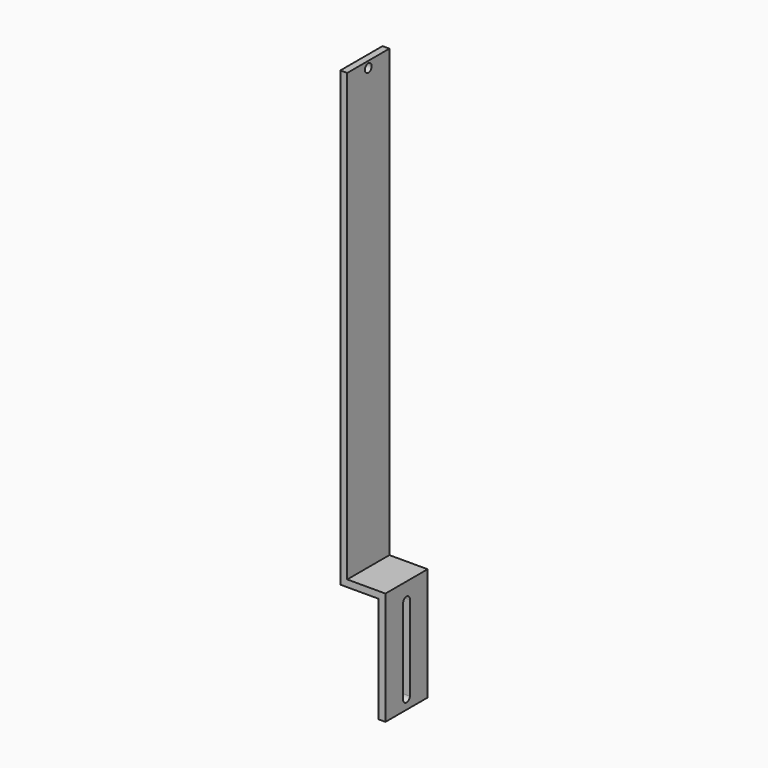
from build123d import *

# Parameters (mm, degrees)
F0_W      = 3.22
F0_H      = 24.83
F1_DEPTH  = 3.22
F1_FACE_W = 3.22
F1_FACE_H = 24.83
F2_DEPTH  = 210
F4_D      = 4
F4_DEPTH  = 3.22
F5_W      = 24.83
F5_H      = 3.22
F6_DEPTH  = 18
F7_W      = 3.22
F7_H      = 24.83
F8_DEPTH  = 50
F10_DEPTH = 3.22


with BuildPart() as f1:
    # F0 (on Top) → F1 (new body)
    with BuildSketch(Plane.XY):
        Rectangle(F0_W, F0_H)
    extrude(amount=F1_DEPTH)

    # F1_face (on face) → F2 (join)
    with BuildSketch(Plane.XY.offset(3.22)):
        Rectangle(F1_FACE_W, F1_FACE_H)
    extrude(amount=F2_DEPTH)

    # F4
    with Locations(Plane.YZ.offset(1.61)):
        with Locations((0, 210.22)):
            Hole(F4_D / 2, depth=F4_DEPTH)

    # F5 (on face) → F6 (join)
    with BuildSketch(Plane.YZ.offset(1.61)):
        with Locations((0, 1.61)):
            Rectangle(F5_W, F5_H)
    extrude(amount=F6_DEPTH)

    # F7 (on face) → F8 (join)
    with BuildSketch(Plane(origin=(0, 0, 0), x_dir=(1, 0, 0), z_dir=(0, 0, -1))):
        with Locations((18, 0)):
            Rectangle(F7_W, F7_H)
    extrude(amount=F8_DEPTH)

    # F9 (on face) → F10 (cut)
    with BuildSketch(Plane.YZ.offset(19.61)):
        with BuildLine():
            Line((1.987245, -44.774488), (1.987245, -5.225512))
            ThreePointArc((1.987245, -5.225512), (0.202519, -3.01028), (-1.991929, -4.820501))
            Line((-1.991929, -4.820501), (-1.991929, -5.179499))
            Line((-1.991929, -5.179499), (-1.991929, -44.820501))
            Line((-1.991929, -44.820501), (-1.991929, -45.179499))
            ThreePointArc((-1.991929, -45.179499), (-0.023125, -46.999866), (1.987245, -45.225512))
            Line((1.987245, -45.225512), (1.987245, -44.774488))
        make_face()
    extrude(amount=-F10_DEPTH, mode=Mode.SUBTRACT)


solid = f1.part
